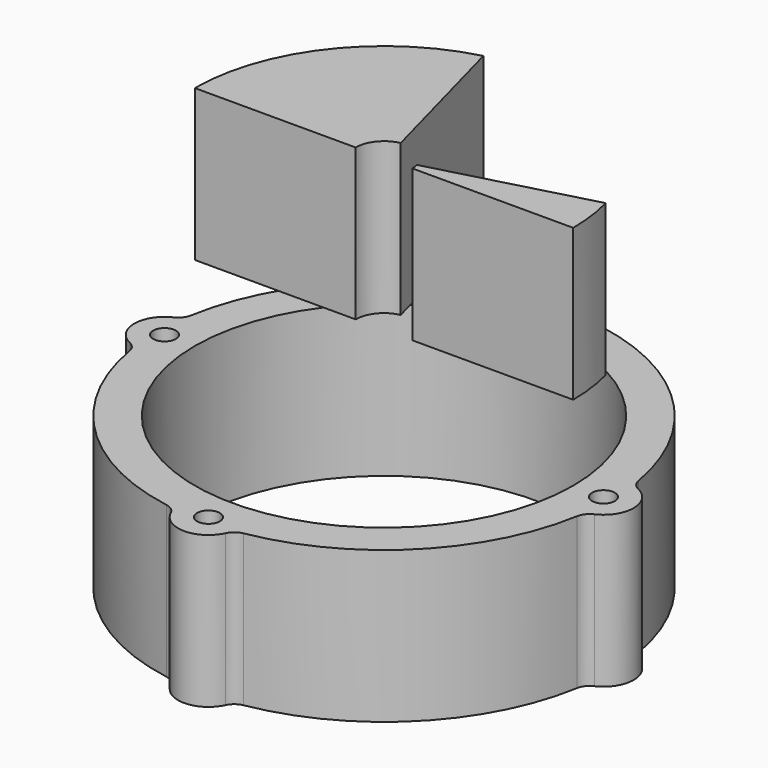
from build123d import *

# Parameters (mm, degrees)
CYLINDER006_R       = 6
CYLINDER006_DEPTH   = 80
CYLINDER007_R       = 6
CYLINDER007_DEPTH   = 80
CYLINDER008_R       = 6
CYLINDER008_DEPTH   = 80
CYLINDER009_R       = 6
CYLINDER009_DEPTH   = 80
CYLINDER002_R       = 16
CYLINDER002_DEPTH   = 80
CYLINDER003_R       = 16
CYLINDER003_DEPTH   = 80
CYLINDER004_R       = 16
CYLINDER004_DEPTH   = 80
CYLINDER005_R       = 16
CYLINDER005_DEPTH   = 80
CYLINDER001_R       = 100
CYLINDER001_DEPTH   = 200
CYLINDER_R          = 120
CYLINDER_DEPTH      = 80
FILLET_R            = 8
FILLET001_R         = 8
FILLET002_R         = 8
BOX_W               = 400
BOX_H               = 200
BOX_DEPTH           = 80
BOX_PLACEMENT_ANGLE = 15
BOX001_W            = 200
BOX001_H            = 200
BOX001_DEPTH        = 80
TUBE_R              = 100
TUBE_R_2            = 15
TUBE_DEPTH          = 80


with BuildPart() as obj1:
    # Cylinder006 → Cylinder006 (new body)
    with BuildSketch(Plane(origin=(116, 0, 0), x_dir=(1, 0, 0), z_dir=(0, 0, 1))):
        Circle(CYLINDER006_R)
    extrude(amount=CYLINDER006_DEPTH)


with BuildPart() as obj2:
    # Cylinder007 → Cylinder007 (new body)
    with BuildSketch(Plane(origin=(-116, 0, 0), x_dir=(1, 0, 0), z_dir=(0, 0, 1))):
        Circle(CYLINDER007_R)
    extrude(amount=CYLINDER007_DEPTH)


with BuildPart() as obj3:
    # Cylinder008 → Cylinder008 (new body)
    with BuildSketch(Plane(origin=(0, 116, 0), x_dir=(1, 0, 0), z_dir=(0, 0, 1))):
        Circle(CYLINDER008_R)
    extrude(amount=CYLINDER008_DEPTH)


with BuildPart() as obj4:
    # Cylinder009 → Cylinder009 (new body)
    with BuildSketch(Plane(origin=(0, -116, 0), x_dir=(1, 0, 0), z_dir=(0, 0, 1))):
        Circle(CYLINDER009_R)
    extrude(amount=CYLINDER009_DEPTH)


with BuildPart() as obj5:
    # Cylinder002 → Cylinder002 (new body)
    with BuildSketch(Plane(origin=(116, 0, 0), x_dir=(1, 0, 0), z_dir=(0, 0, 1))):
        Circle(CYLINDER002_R)
    extrude(amount=CYLINDER002_DEPTH)


with BuildPart() as obj6:
    # Cylinder003 → Cylinder003 (new body)
    with BuildSketch(Plane(origin=(-116, 0, 0), x_dir=(1, 0, 0), z_dir=(0, 0, 1))):
        Circle(CYLINDER003_R)
    extrude(amount=CYLINDER003_DEPTH)


with BuildPart() as obj7:
    # Cylinder004 → Cylinder004 (new body)
    with BuildSketch(Plane(origin=(0, 116, 0), x_dir=(1, 0, 0), z_dir=(0, 0, 1))):
        Circle(CYLINDER004_R)
    extrude(amount=CYLINDER004_DEPTH)


with BuildPart() as obj8:
    # Cylinder005 → Cylinder005 (new body)
    with BuildSketch(Plane(origin=(0, -116, 0), x_dir=(1, 0, 0), z_dir=(0, 0, 1))):
        Circle(CYLINDER005_R)
    extrude(amount=CYLINDER005_DEPTH)


with BuildPart() as obj9:
    # Cylinder001 → Cylinder001 (new body)
    with BuildSketch(Plane.XY):
        Circle(CYLINDER001_R)
    extrude(amount=CYLINDER001_DEPTH)


with BuildPart() as fillet002:
    # Cylinder → Cylinder (new body)
    with BuildSketch(Plane.XY):
        Circle(CYLINDER_R)
    extrude(amount=CYLINDER_DEPTH)

    # Cut: cut obj9
    add(obj9.part, mode=Mode.SUBTRACT)

    # Fusion: union obj5, obj6, obj7, obj8
    add(obj5.part)
    add(obj6.part)
    add(obj7.part)
    add(obj8.part)

    # Cut001: cut obj4
    add(obj4.part, mode=Mode.SUBTRACT)

    # Cut002: cut obj3
    add(obj3.part, mode=Mode.SUBTRACT)

    # Cut003: cut obj2
    add(obj2.part, mode=Mode.SUBTRACT)

    # Cut004: cut obj1
    add(obj1.part, mode=Mode.SUBTRACT)

    # Fillet
    fillet_edges = [fillet002.edges().sort_by_distance(p)[0] for p in [
        (-15.722777, 118.965517, 40),
    ]]
    fillet(fillet_edges, radius=FILLET_R)

    # Fillet001
    fillet001_edges = [fillet002.edges().sort_by_distance(p)[0] for p in [
        (15.722777, 118.965517, 40),
    ]]
    fillet(fillet001_edges, radius=FILLET001_R)

    # Fillet002
    fillet002_edges = [fillet002.edges().sort_by_distance(p)[0] for p in [
        (118.965517, 15.722777, 40),
        (-118.965517, 15.722777, 40),
        (118.965517, -15.722777, 40),
        (-118.965517, -15.722777, 40),
        (-15.722777, -118.965517, 40),
        (15.722777, -118.965517, 40),
    ]]
    fillet(fillet002_edges, radius=FILLET002_R)


with BuildPart() as obj10:
    # Box → Box (new body)
    with BuildSketch(Plane.XY):
        with Locations((200, 100)):
            Rectangle(BOX_W, BOX_H)
    extrude(amount=BOX_DEPTH)


with BuildPart() as obj10_1:
    # Box placement: moved
    add(obj10.part.moved(Location((1, 0, 120))).rotate(Axis((1, 0, 120), (0, 0, 1)), BOX_PLACEMENT_ANGLE))


with BuildPart() as obj11:
    # Box001 → Box001 (new body)
    with BuildSketch(Plane(origin=(-100, -200, 120), x_dir=(1, 0, 0), z_dir=(0, 0, 1))):
        with Locations((100, 100)):
            Rectangle(BOX001_W, BOX001_H)
    extrude(amount=BOX001_DEPTH)


with BuildPart() as cut006:
    # Tube → Tube (new body)
    with BuildSketch(Plane.XY.offset(120)):
        Circle(TUBE_R)
        Circle(TUBE_R_2, mode=Mode.SUBTRACT)
    extrude(amount=TUBE_DEPTH)

    # Cut005: cut obj11
    add(obj11.part, mode=Mode.SUBTRACT)

    # Cut006: cut obj10
    add(obj10_1.part, mode=Mode.SUBTRACT)


solid = Compound([fillet002.part, cut006.part])
